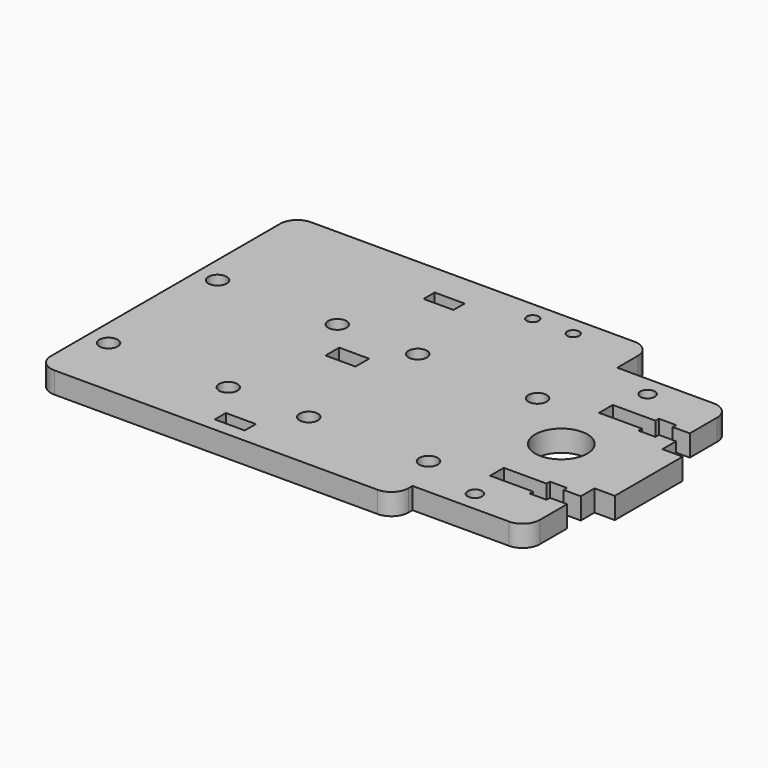
from build123d import *

# Parameters (mm, degrees)
F0_R     = 2.15
F0_W     = 7
F0_H     = 3.25
F0_R_2   = 1.7
F0_R_3   = 6.1
F0_H_2   = 4
F0_R_4   = 1.4
F1_DEPTH = 5


with BuildPart() as f1:
    # F0 (on Top) → F1 (new body)
    with BuildSketch(Plane.XY):
        with BuildLine():
            ThreePointArc((0, 4), (1.171573, 1.171573), (4, 0))
            Line((4, 0), (79.6, 0))
            ThreePointArc((79.6, 0), (82.428427, 1.171573), (83.6, 4))
            Line((83.6, 4), (83.6, 5.168146))
            Line((83.6, 5.168146), (106.15, 5.168146))
            ThreePointArc((106.15, 5.168146), (108.978427, 6.339718), (110.15, 9.168146))
            Line((110.15, 9.168146), (110.15, 17.164505))
            Line((110.15, 17.164505), (106.15, 17.164505))
            Line((106.15, 17.164505), (106.15, 16.164505))
            Line((106.15, 16.164505), (102.15, 16.164505))
            Line((102.15, 16.164505), (102.15, 17.164505))
            Line((102.15, 17.164505), (92.15, 17.164505))
            Line((92.15, 17.164505), (92.15, 21.164505))
            Line((92.15, 21.164505), (102.15, 21.164505))
            Line((102.15, 21.164505), (102.15, 22.164505))
            Line((102.15, 22.164505), (106.15, 22.164505))
            Line((106.15, 22.164505), (106.15, 21.164505))
            Line((106.15, 21.164505), (110.15, 21.164505))
            Line((110.15, 21.164505), (110.15, 25.168146))
            Line((110.15, 25.168146), (114.886364, 25.168146))
            Line((114.886364, 25.168146), (114.886364, 45))
            Line((114.886364, 45), (110.15, 45))
            Line((110.15, 45), (110.15, 49.003641))
            Line((110.15, 49.003641), (106.15, 49.003641))
            Line((106.15, 49.003641), (106.15, 48.003641))
            Line((106.15, 48.003641), (102.15, 48.003641))
            Line((102.15, 48.003641), (102.15, 49.003641))
            Line((102.15, 49.003641), (92.15, 49.003641))
            Line((92.15, 49.003641), (92.15, 53.003641))
            Line((92.15, 53.003641), (102.15, 53.003641))
            Line((102.15, 53.003641), (102.15, 54.003641))
            Line((102.15, 54.003641), (106.15, 54.003641))
            Line((106.15, 54.003641), (106.15, 53.003641))
            Line((106.15, 53.003641), (110.15, 53.003641))
            Line((110.15, 53.003641), (110.15, 61))
            ThreePointArc((110.15, 61), (108.978427, 63.828427), (106.15, 65))
            Line((106.15, 65), (83.6, 65))
            Line((83.6, 65), (83.6, 71))
            ThreePointArc((83.6, 71), (82.428427, 73.828427), (79.6, 75))
            Line((79.6, 75), (4, 75))
            ThreePointArc((4, 75), (1.171573, 73.828427), (0, 71))
            Line((0, 71), (0, 4))
        make_face()
        with Locations((5, 14.6)):
            Circle(F0_R, mode=Mode.SUBTRACT)
        with Locations((42.5, 4.770976)):
            Rectangle(F0_W, F0_H, mode=Mode.SUBTRACT)
        with Locations((33, 14.6)):
            Circle(F0_R, mode=Mode.SUBTRACT)
        with Locations((51.8, 14.6)):
            Circle(F0_R, mode=Mode.SUBTRACT)
        with Locations((79.8, 14.6)):
            Circle(F0_R, mode=Mode.SUBTRACT)
        with Locations((94.45, 9.868146)):
            Circle(F0_R_2, mode=Mode.SUBTRACT)
        with Locations((94.45, 35.084073)):
            Circle(F0_R_3, mode=Mode.SUBTRACT)
        with Locations((5, 46.45)):
            Circle(F0_R, mode=Mode.SUBTRACT)
        with Locations((42.5, 37.5)):
            Rectangle(F0_W, F0_H_2, mode=Mode.SUBTRACT)
        with Locations((33, 46.45)):
            Circle(F0_R, mode=Mode.SUBTRACT)
        with Locations((51.8, 46.45)):
            Circle(F0_R, mode=Mode.SUBTRACT)
        with Locations((42.5, 65.775)):
            Rectangle(F0_W, F0_H, mode=Mode.SUBTRACT)
        with Locations((79.8, 46.45)):
            Circle(F0_R, mode=Mode.SUBTRACT)
        with Locations((59.45, 70.5)):
            Circle(F0_R_4, mode=Mode.SUBTRACT)
        with Locations((68.9, 70.5)):
            Circle(F0_R_4, mode=Mode.SUBTRACT)
        with Locations((94.45, 60.3)):
            Circle(F0_R_2, mode=Mode.SUBTRACT)
    extrude(amount=F1_DEPTH)


solid = f1.part
